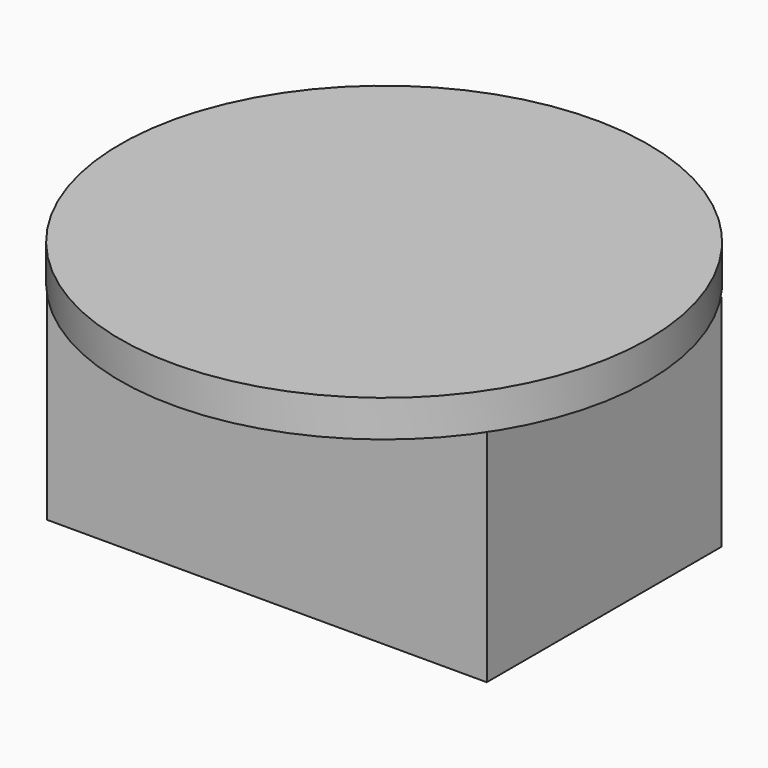
from build123d import *

# Parameters (mm, degrees)
F0_W     = 60
F0_H     = 40
F1_DEPTH = 30
F2_T     = -2
F3_R     = 20
F4_W     = 55
F4_H     = 35
F5_DEPTH = 5
F6_R     = 36
F6_W     = 55
F6_H     = 35
F7_DEPTH = 5


with BuildPart() as f1:
    # F0 (on Top) → F1 (new body)
    with BuildSketch(Plane.XY):
        Rectangle(F0_W, F0_H)
    extrude(amount=F1_DEPTH)

    # F2
    f2_openings = [f1.faces().sort_by_distance(p)[0] for p in [
        (0, 0, 30),
    ]]
    offset(amount=F2_T, openings=f2_openings)

    # F3
    f3_edges = [f1.edges().sort_by_distance(p)[0] for p in [
        (28, 0, 2),
        (-28, 0, 2),
    ]]
    fillet(f3_edges, radius=F3_R)


with BuildPart() as f5:
    # F4 (on face) → F5 (new body)
    with BuildSketch(Plane.XY.offset(30)):
        Rectangle(F4_W, F4_H)
    extrude(amount=-F5_DEPTH)


with BuildPart() as f7:
    # F6 (on face) → F7 (new body)
    with BuildSketch(Plane.XY.offset(30)):
        Circle(F6_R)
        Rectangle(F6_W, F6_H, mode=Mode.SUBTRACT)
        Rectangle(F6_W, F6_H)
    extrude(amount=F7_DEPTH)


solid = Compound([f1.part, f5.part, f7.part])
